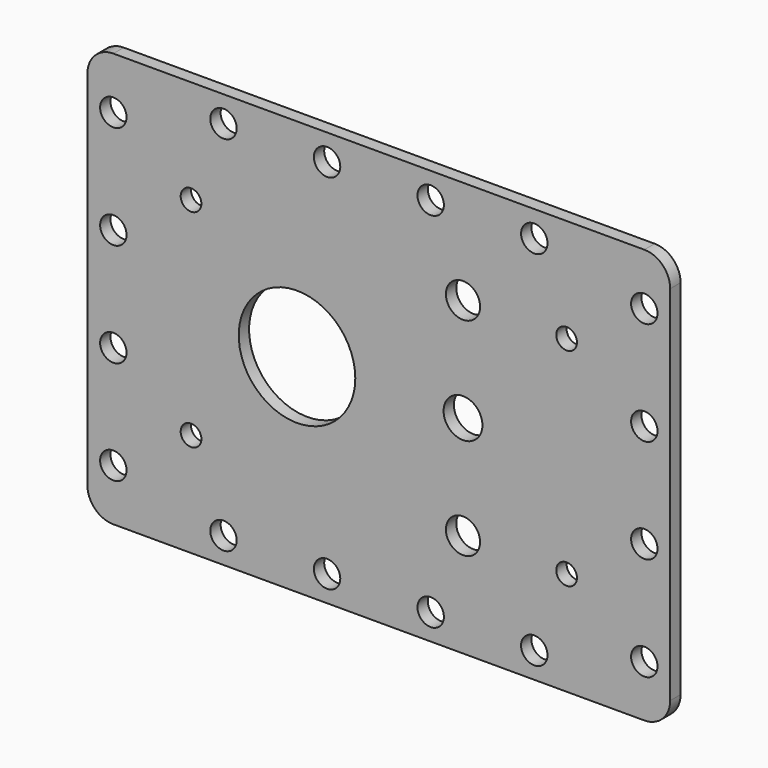
from build123d import *

# Parameters (mm, degrees)
F0_R     = 3.2385
F0_R_2   = 2.54
F0_R_3   = 4.191
F0_R_4   = 14.2875
F0_R_5   = 4.7625
F1_DEPTH = 3.175


with BuildPart() as f1:
    # F0 (on Front) → F1 (new body)
    with BuildSketch(Plane.XZ):
        with BuildLine():
            ThreePointArc((0, 6.35), (1.859872, 1.859872), (6.35, 0))
            Line((6.35, 0), (136.525, 0))
            ThreePointArc((136.525, 0), (141.015128, 1.859872), (142.875, 6.35))
            Line((142.875, 6.35), (142.875, 95.25))
            ThreePointArc((142.875, 95.25), (141.015128, 99.740128), (136.525, 101.6))
            Line((136.525, 101.6), (6.35, 101.6))
            ThreePointArc((6.35, 101.6), (1.859872, 99.740128), (0, 95.25))
            Line((0, 95.25), (0, 6.35))
        make_face()
        with Locations((33.3502, 6.35)):
            Circle(F0_R, mode=Mode.SUBTRACT)
        with Locations((6.35, 12.7)):
            Circle(F0_R, mode=Mode.SUBTRACT)
        with Locations((58.7502, 6.35)):
            Circle(F0_R, mode=Mode.SUBTRACT)
        with Locations((25.4, 25.4)):
            Circle(F0_R_2, mode=Mode.SUBTRACT)
        with Locations((6.35, 38.1)):
            Circle(F0_R, mode=Mode.SUBTRACT)
        with Locations((84.1502, 6.35)):
            Circle(F0_R, mode=Mode.SUBTRACT)
        with Locations((109.5502, 6.35)):
            Circle(F0_R, mode=Mode.SUBTRACT)
        with Locations((136.525, 12.7)):
            Circle(F0_R, mode=Mode.SUBTRACT)
        with Locations((92.075, 25.4)):
            Circle(F0_R_3, mode=Mode.SUBTRACT)
        with Locations((117.475, 25.4)):
            Circle(F0_R_2, mode=Mode.SUBTRACT)
        with Locations((136.525, 38.1)):
            Circle(F0_R, mode=Mode.SUBTRACT)
        with Locations((6.35, 63.5)):
            Circle(F0_R, mode=Mode.SUBTRACT)
        with Locations((51.3842, 50.8)):
            Circle(F0_R_4, mode=Mode.SUBTRACT)
        with Locations((25.4, 76.2)):
            Circle(F0_R_2, mode=Mode.SUBTRACT)
        with Locations((6.35, 88.9)):
            Circle(F0_R, mode=Mode.SUBTRACT)
        with Locations((33.3502, 95.25)):
            Circle(F0_R, mode=Mode.SUBTRACT)
        with Locations((58.7502, 95.25)):
            Circle(F0_R, mode=Mode.SUBTRACT)
        with Locations((92.075, 50.8)):
            Circle(F0_R_5, mode=Mode.SUBTRACT)
        with Locations((136.525, 63.5)):
            Circle(F0_R, mode=Mode.SUBTRACT)
        with Locations((92.075, 76.2)):
            Circle(F0_R_3, mode=Mode.SUBTRACT)
        with Locations((84.1502, 95.25)):
            Circle(F0_R, mode=Mode.SUBTRACT)
        with Locations((117.475, 76.2)):
            Circle(F0_R_2, mode=Mode.SUBTRACT)
        with Locations((109.5502, 95.25)):
            Circle(F0_R, mode=Mode.SUBTRACT)
        with Locations((136.525, 88.9)):
            Circle(F0_R, mode=Mode.SUBTRACT)
    extrude(amount=F1_DEPTH)


solid = f1.part
